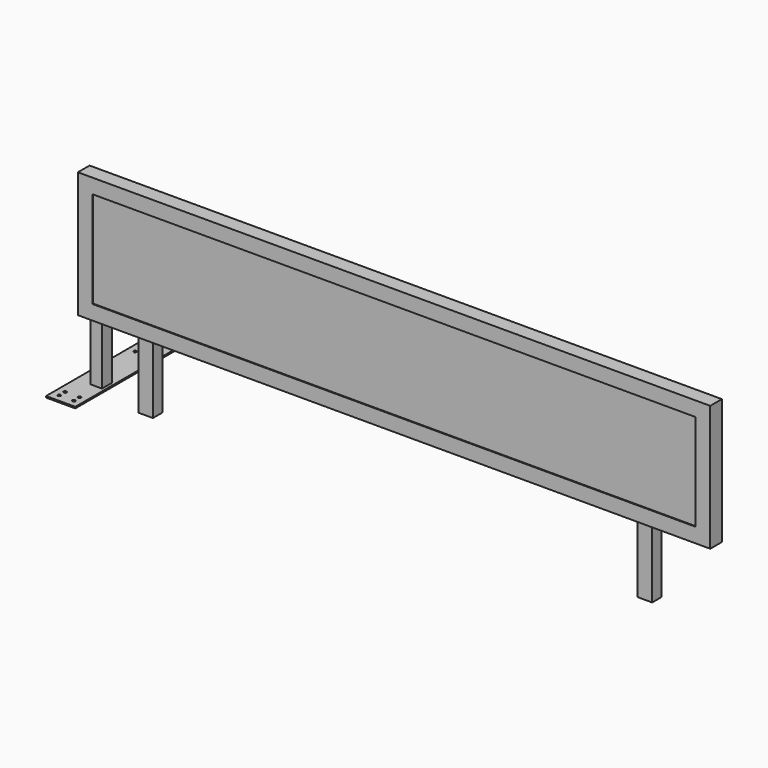
from build123d import *

# Parameters (mm, degrees)
F0_W            = 2060
F0_H            = 325
F1_DEPTH        = 9
F2_DEPTH        = 25
F0_W_2          = 50
F0_H_2          = 230
F3_DEPTH        = 20
F4_W            = 2160
F4_H            = 425
F4_W_2          = 2066
F4_H_2          = 331
F5_DEPTH        = 3
F7_DEPTH        = 40
F8_DEPTH        = 50
F10_D           = 5
F10_CSINK_D     = 10
F10_CSINK_ANGLE = 90


with BuildPart() as f1:
    # F0 (on Front) → F1 (new body, symmetric)
    with BuildSketch(Plane.XZ):
        Polygon((67.3980626017, 413.5589126498), (-2092.6019373983, 413.5589126498), (-2092.6019373983, -11.4410873502), (-1892.6019373983, -11.4410873502), (-1842.6019373983, -11.4410873502), (-182.6019373983, -11.4410873502), (-132.6019373983, -11.4410873502), (67.3980626017, -11.4410873502), align=None)
        with Locations((-1012.6019373983, 201.0589126498)):
            Rectangle(F0_W, F0_H, mode=Mode.SUBTRACT)
        with Locations((-1012.6019373983, 201.0589126498)):
            Rectangle(F0_W, F0_H)
    extrude(amount=F1_DEPTH, both=True)


with BuildPart() as f2:
    # F0 (on Front) → F2 (new body, symmetric)
    with BuildSketch(Plane.XZ):
        Polygon((-2095.6019373983, -14.4410873502), (-1892.6019373983, -14.4410873502), (-1842.6019373983, -14.4410873502), (-182.6019373983, -14.4410873502), (-132.6019373983, -14.4410873502), (70.3980626017, -14.4410873502), (70.3980626017, 416.5589126498), (-2095.6019373983, 416.5589126498), align=None)
        Polygon((-2092.6019373983, -11.4410873502), (-2092.6019373983, 413.5589126498), (67.3980626017, 413.5589126498), (67.3980626017, -11.4410873502), (-132.6019373983, -11.4410873502), (-182.6019373983, -11.4410873502), (-1842.6019373983, -11.4410873502), (-1892.6019373983, -11.4410873502), align=None, mode=Mode.SUBTRACT)
    extrude(amount=F2_DEPTH, both=True)

    # F4 (on face) → F5 (join)
    with BuildSketch(Plane.XZ.offset(25)):
        with Locations((-1012.6019373983, 201.0589126498)):
            Rectangle(F4_W, F4_H)
        with Locations((-1012.6019373983, 201.0589126498)):
            Rectangle(F4_W_2, F4_H_2, mode=Mode.SUBTRACT)
    extrude(amount=-F5_DEPTH)


with BuildPart() as f3:
    # F0 (on Front) → F3 (new body, symmetric)
    with BuildSketch(Plane.XZ):
        with Locations((-1867.6019373983, -129.4410873502)):
            Rectangle(F0_W_2, F0_H_2)
    extrude(amount=F3_DEPTH, both=True)


with BuildPart() as f3b:
    # F0 (on Front) → F3, piece 2 (new body, symmetric)
    with BuildSketch(Plane.XZ):
        with Locations((-157.6019373983, -129.4410873502)):
            Rectangle(F0_W_2, F0_H_2)
    extrude(amount=F3_DEPTH, both=True)


with BuildPart() as f7:
    # F6 (on face) → F7 (new body)
    with BuildSketch(Plane(origin=(-2095.6019373983, 0, 0), x_dir=(0, -1, 0), z_dir=(-1, 0, 0))):
        Polygon((-476.710391711, -244.4410873502), (-70.4267646607, 310.776676828), (-70.4267646607, 378.5118322609), (-526.2759611211, -244.4410873502), align=None)
        Polygon((-70.4267646607, 378.5118322609), (-70.4267646607, 310.776676828), (-70.4267646607, -244.4410873502), (-28.1774010509, -244.4410873502), (-28.1774010509, 378.5118322609), align=None)
    extrude(amount=-F7_DEPTH)


with BuildPart() as f8:
    # F6 (on face) → F8 (new body, symmetric)
    with BuildSketch(Plane(origin=(-2095.6019373983, 0, 0), x_dir=(0, -1, 0), z_dir=(-1, 0, 0))):
        Polygon((-70.4267646607, -244.4410873502), (-476.710391711, -244.4410873502), (-526.2759611211, -244.4410873502), (-601.3469099998, -244.4410873502), (-601.3469099998, -249.4410873502), (98.6530900002, -249.4410873502), (98.6530900002, -244.4410873502), (-28.1774010509, -244.4410873502), align=None)
    extrude(amount=F8_DEPTH, both=True)

    # F10 (through all)
    with Locations(Plane.XY.offset(-244.4410873502)):
        with Locations((-2070.6019373983, -73.6530900002), (-2120.6019373983, -73.6530900002), (-2120.6019373983, -48.6530900002), (-2070.9691047668, -48.6530900002), (-2120.6019373983, 71.3469099998), (-2120.6019373983, 251.3469099998), (-2120.6019373983, 456.3469099998), (-2070.6019373983, 576.3469099998), (-2120.6019373983, 576.3469099998)):
            CounterSinkHole(F10_D / 2, F10_CSINK_D / 2, counter_sink_angle=F10_CSINK_ANGLE)


solid = Compound([f1.part, f2.part, f3.part, f3b.part, f7.part, f8.part])
